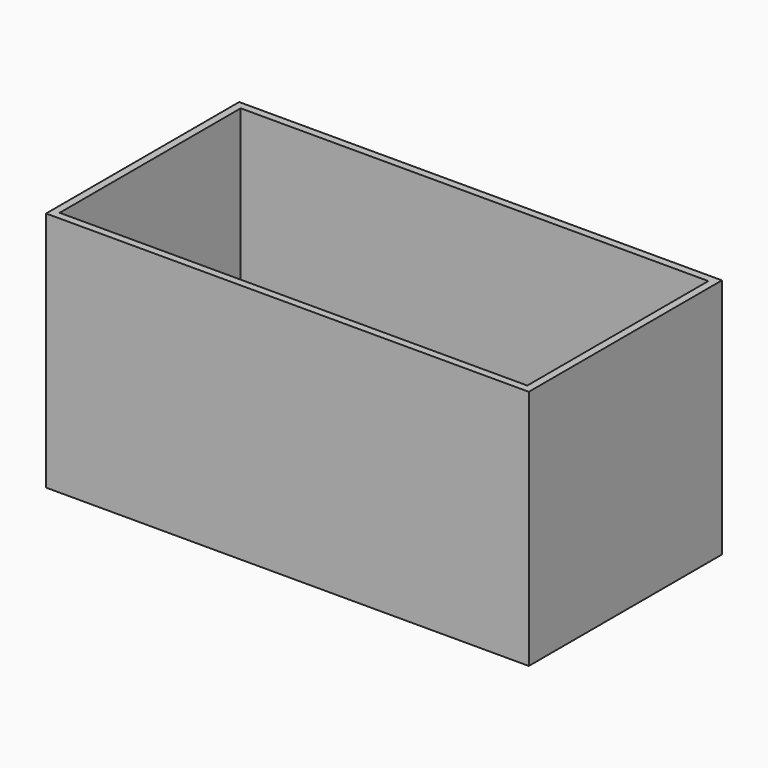
from build123d import *

# Parameters (mm, degrees)
F0_W     = 406.4
F0_H     = 203.2
F1_DEPTH = 101.6
F2_T     = -6.35


with BuildPart() as f1:
    # F0 (on Front) → F1 (new body, symmetric)
    with BuildSketch(Plane.XZ):
        Rectangle(F0_W, F0_H)
    extrude(amount=F1_DEPTH, both=True)

    # F2
    f2_openings = [f1.faces().sort_by_distance(p)[0] for p in [
        (0, 0, 101.6),
    ]]
    offset(amount=F2_T, openings=f2_openings)


solid = f1.part
